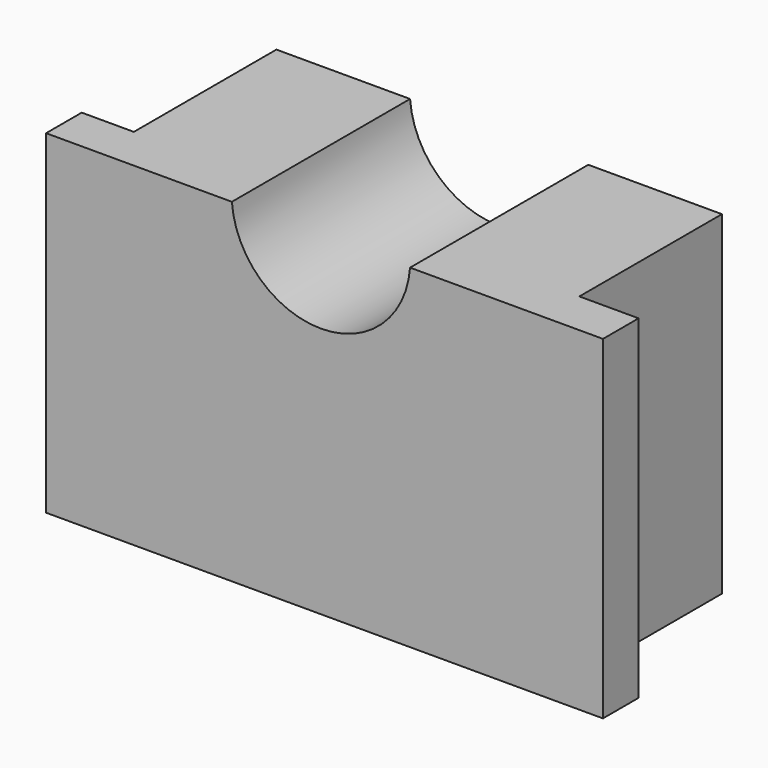
from build123d import *

# Parameters (mm, degrees)
F0_W     = 63.5
F0_H     = 38.1
F1_DEPTH = 5.08
F2_W     = 50.8
F2_H     = 38.1
F3_DEPTH = 20.32
F4_W     = 40.64
F4_H     = 8.89
F5_DEPTH = 20.32
F7_DEPTH = 50.8


with BuildPart() as f1:
    # F0 (on Front) → F1 (new body)
    with BuildSketch(Plane.XZ):
        with Locations((0.112484, 0.318908)):
            Rectangle(F0_W, F0_H)
    extrude(amount=F1_DEPTH)

    # F2 (on face) → F3 (join)
    with BuildSketch(Plane(origin=(0, 0, 0), x_dir=(-1, 0, 0), z_dir=(0, 1, 0))):
        with Locations((0.2931, 0.318908)):
            Rectangle(F2_W, F2_H)
    extrude(amount=F3_DEPTH)

    # F4 (on face) → F5 (cut)
    with BuildSketch(Plane(origin=(0, 20.32, 0), x_dir=(-1, 0, 0), z_dir=(0, 1, 0))):
        with Locations((0.2931, -14.286092)):
            Rectangle(F4_W, F4_H)
    extrude(amount=-F5_DEPTH, mode=Mode.SUBTRACT)

    # F6 (on face) → F7 (cut)
    with BuildSketch(Plane(origin=(0, 20.32, 0), x_dir=(-1, 0, 0), z_dir=(0, 1, 0))):
        with BuildLine():
            Line((10.4531, 19.368908), (-9.8669, 19.368908))
            ThreePointArc((-9.8669, 19.368908), (0.2931, 9.939267), (10.4531, 19.368908))
        make_face()
    extrude(amount=-F7_DEPTH, mode=Mode.SUBTRACT)


solid = f1.part
